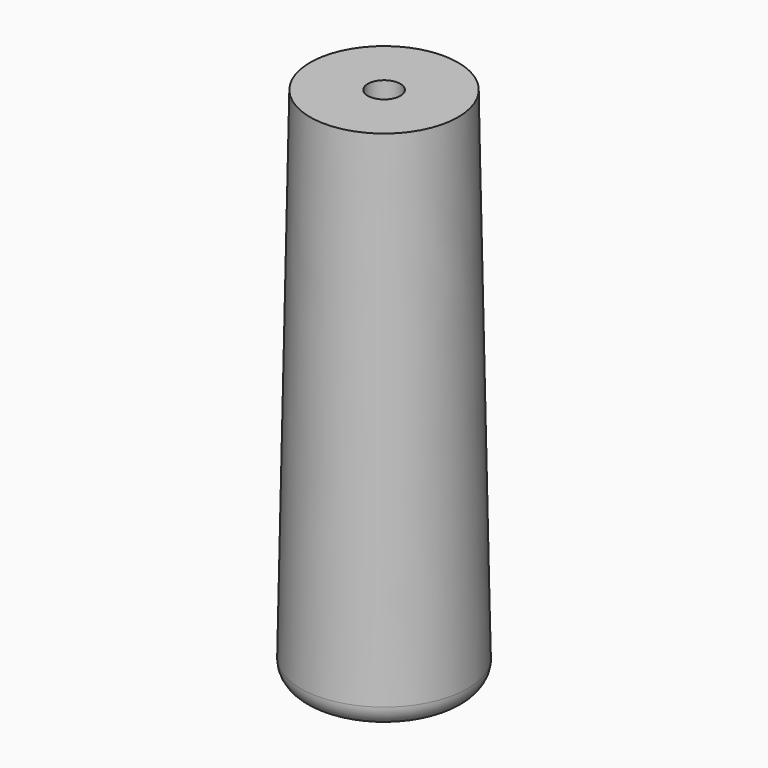
from build123d import *

# Parameters (mm, degrees)
F0_R = 18.034
F2_R = 20.447
F4_R = 5.08
F6_D = 7.9375


with BuildPart() as f3:
    # F0 (on Top) → F3 section 0
    with BuildSketch(Plane.XY):
        Circle(F0_R)
    # F2 (on offset) → F3 section 1
    with BuildSketch(Plane.XY.offset(-127)):
        Circle(F2_R)
    loft()

    # F4
    f4_edges = [f3.edges().sort_by_distance(p)[0] for p in [
        (-20.447, 0, -127),
    ]]
    fillet(f4_edges, radius=F4_R)

    # F6 (through all)
    with Locations(Plane.XY):
        with Locations((0, 0)):
            Hole(F6_D / 2)


solid = f3.part
